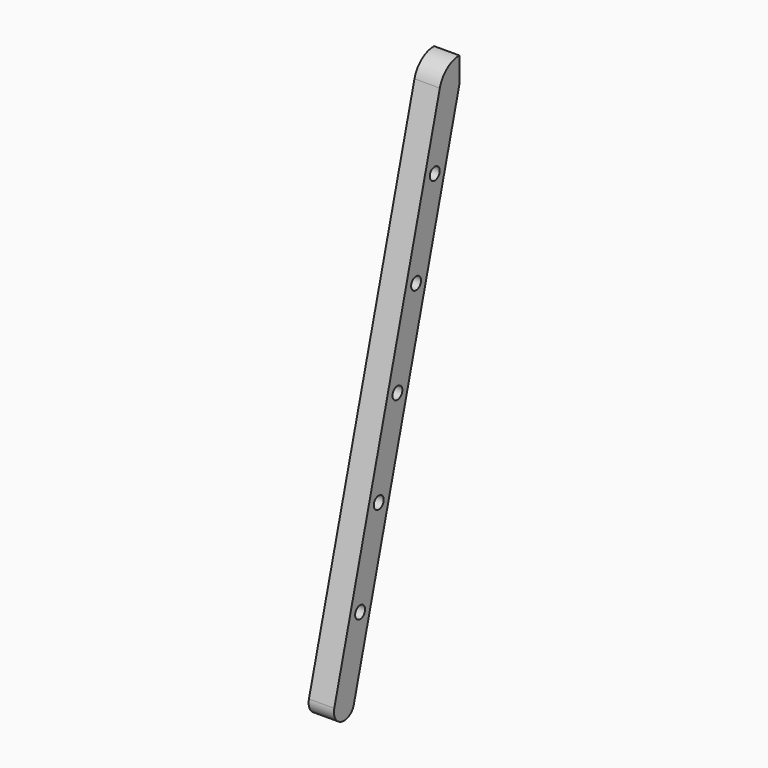
from build123d import *

# Parameters (mm, degrees)
F1_DEPTH = 45
F3_D     = 22


with BuildPart() as f1:
    # F0 (on Right) → F1 (new body)
    with BuildSketch(Plane.YZ):
        with BuildLine():
            Line((-325.142828, 543.440547), (-90.868571, 1417.763976))
            Line((-90.868571, 1417.763976), (-90.868571, 1462.763976))
            ThreePointArc((-90.868571, 1462.763976), (-118.262835, 1453.464876), (-134.335233, 1429.410833))
            Line((-134.335233, 1429.410833), (-368.60949, 555.087404))
            ThreePointArc((-368.60949, 555.087404), (-366.36173, 538.013976), (-352.699587, 527.530645))
            ThreePointArc((-352.699587, 527.530645), (-335.626159, 529.778404), (-325.142828, 543.440547))
        make_face()
    extrude(amount=F1_DEPTH)

    # F3 (through all)
    with Locations(Plane.YZ.offset(45)):
        with Locations((-145.644351, 1300.271306), (-187.055398, 1145.723173), (-228.466446, 991.175041), (-269.877493, 836.626909), (-311.28854, 682.078777)):
            Hole(F3_D / 2)


solid = f1.part
